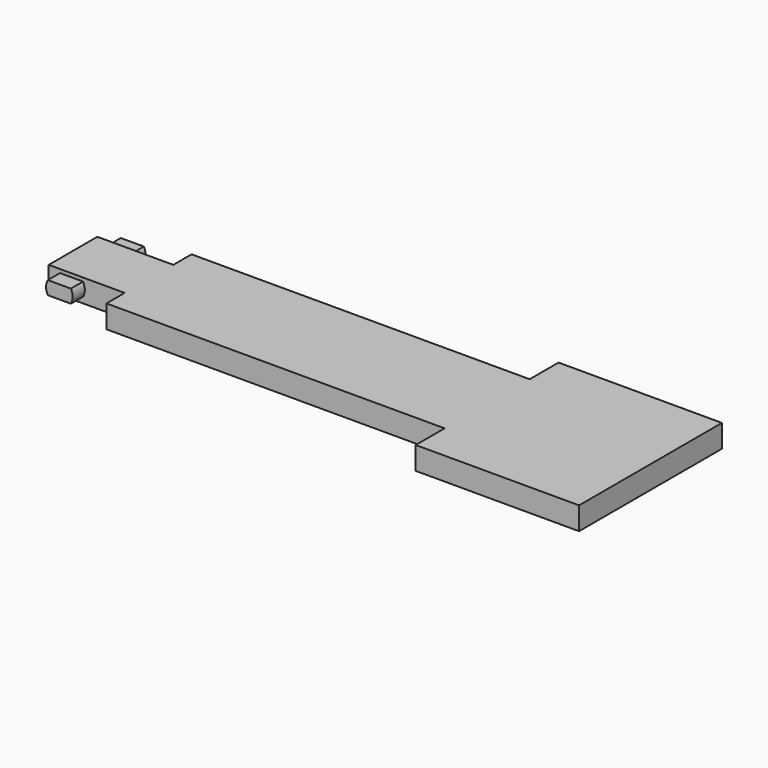
from build123d import *

# Parameters (mm, degrees)
PAD005_DEPTH            = 3
PAD006_DEPTH            = 6
SKETCH006_R             = 2.1
POCKET_DEPTH            = 2
SKETCH007_R             = 3
PAD007_DEPTH            = 3
FILLET001_R             = 2.5
BODY001_ROLL_ANGLE      = 180
BODY001_PLACEMENT_ANGLE = -90


with BuildPart() as part:
    # Sketch005 → Pad005 (new body)
    with BuildSketch(Plane.XY):
        Polygon((-11.75, -33), (11.75, -33), (11.75, -11.5), (7, -11.5), (7, 33), (4, 33), (4, 43), (-4, 43), (-4, 33), (-7, 33), (-7, -11.5), (-11.75, -11.5), align=None)
    extrude(amount=PAD005_DEPTH)

    # Sketch001 → Pad006 (join, symmetric)
    with BuildSketch(Plane.YZ):
        with BuildLine():
            ThreePointArc((41.515544, 0.472742), (41.75, 1.347742), (41.515544, 2.222742))
            Line((41.515544, 2.222742), (38.484456, 2.222742))
            ThreePointArc((38.484456, 2.222742), (38.25, 1.347742), (38.484456, 0.472742))
            Line((41.515544, 0.472742), (38.484456, 0.472742))
        make_face()
    extrude(amount=PAD006_DEPTH, both=True)

    # Sketch006 (on Face5 of Pad006) → Pocket (cut)
    with BuildSketch(Plane.XY.offset(3)):
        with Locations((0, -23)):
            Circle(SKETCH006_R)
    extrude(amount=-POCKET_DEPTH, mode=Mode.SUBTRACT)

    # Sketch007 (on Face5 of Pocket) → Pad007 (join)
    with BuildSketch(Plane.XY.offset(3)):
        with Locations((0, 23)):
            Circle(SKETCH007_R)
    extrude(amount=PAD007_DEPTH)

    # Fillet001
    fillet001_edges = [part.edges().sort_by_distance(p)[0] for p in [
        (-3, 23, 6),
    ]]
    fillet(fillet001_edges, radius=FILLET001_R)


with BuildPart() as part_1:
    # Body001 roll: moved
    add(part.part.rotate(Axis((0, 0, 0), (1, 0, 0)), BODY001_ROLL_ANGLE))


with BuildPart() as part_2:
    # Body001 placement: moved
    add(part_1.part.moved(Location((37.75, -1.865516, 19.218022))).rotate(Axis((37.75, -1.865516, 19.218022), (0, 0, 1)), BODY001_PLACEMENT_ANGLE))


solid = part_2.part
